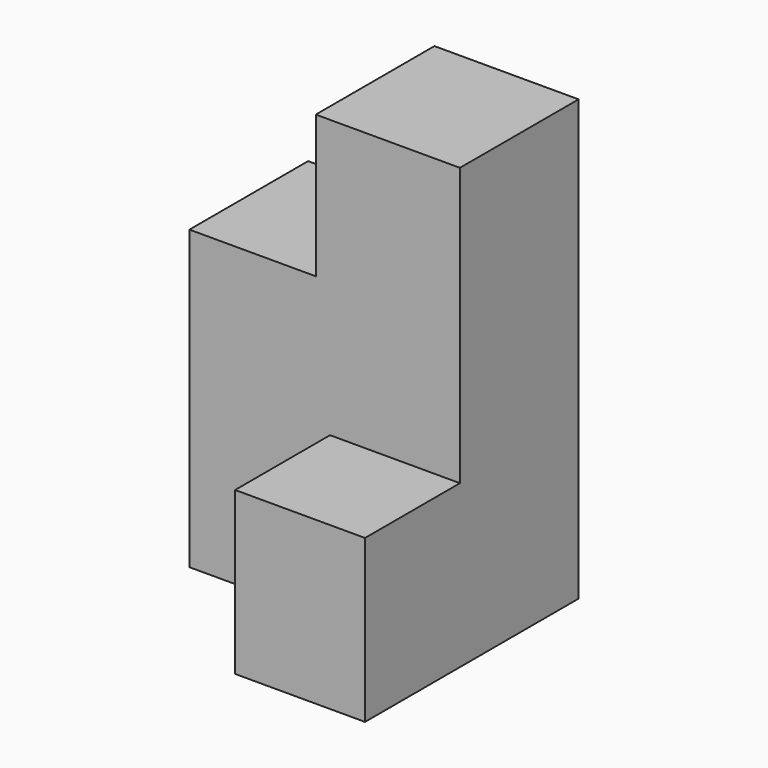
from build123d import *

# Parameters (mm, degrees)
F0_W     = 24.300002
F0_H     = 23.999999
F0_H_2   = 24.600001
F0_W_2   = 21.300001
F0_H_3   = 25.499999
F1_DEPTH = 25
F2_W     = 21.9
F2_H     = 27.3
F3_DEPTH = 20


with BuildPart() as f1:
    # F0 (on Front) → F1 (new body)
    with BuildSketch(Plane.XZ):
        with Locations((-18.000001, 28.199999)):
            Rectangle(F0_W, F0_H)
        with Locations((-18.000001, 3.899999)):
            Rectangle(F0_W, F0_H_2)
        with Locations((-40.800002, 3.899999)):
            Rectangle(F0_W_2, F0_H_2)
        with Locations((-18.000001, -21.15)):
            Rectangle(F0_W, F0_H_3)
        with Locations((-40.800002, -21.15)):
            Rectangle(F0_W_2, F0_H_3)
    extrude(amount=F1_DEPTH)

    # F2 (on face) → F3 (join)
    with BuildSketch(Plane.XZ.offset(25)):
        with Locations((-16.8, -20.25)):
            Rectangle(F2_W, F2_H)
    extrude(amount=F3_DEPTH)


solid = f1.part
